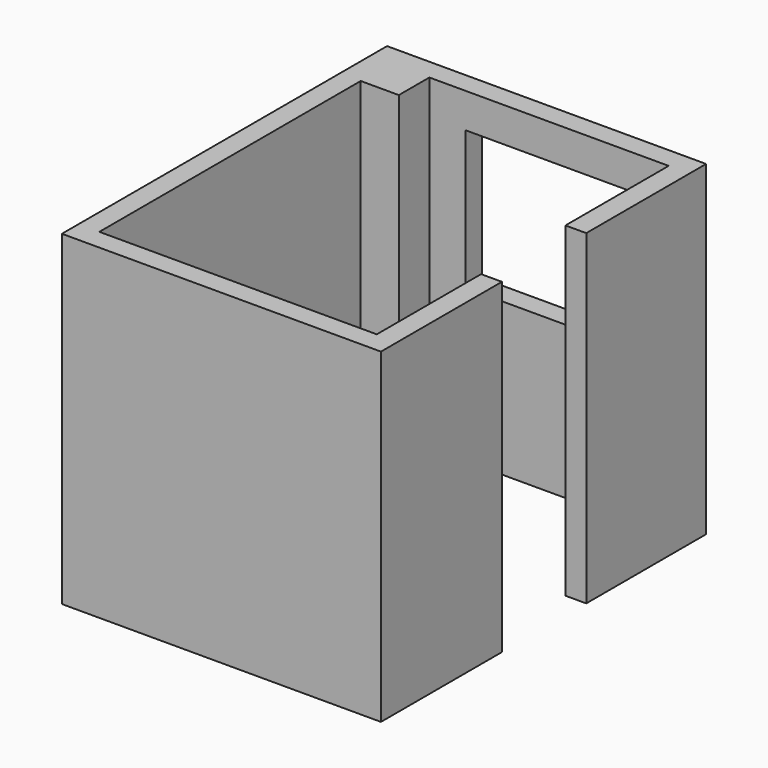
from build123d import *

# Parameters (mm, degrees)
F1_DEPTH = 2350
F2_W     = 1170
F2_H     = 1000
F3_DEPTH = 150


with BuildPart() as f1:
    # F0 (on Top) → F1 (new body)
    with BuildSketch(Plane.XY):
        Polygon((0, 940), (0, 0), (-2000, 0), (-2000, 2355), (-1725, 2355), (-1725, 2630), (0, 2630), (0, 1700), (150, 1700), (150, 2780), (-2150, 2780), (-2150, -150), (150, -150), (150, 940), align=None)
    extrude(amount=F1_DEPTH)

    # F2 (on face) → F3 (cut, through all)
    with BuildSketch(Plane.XZ.offset(-2630)):
        with Locations((-880, 1600)):
            Rectangle(F2_W, F2_H)
    extrude(amount=-F3_DEPTH, mode=Mode.SUBTRACT)


solid = f1.part
